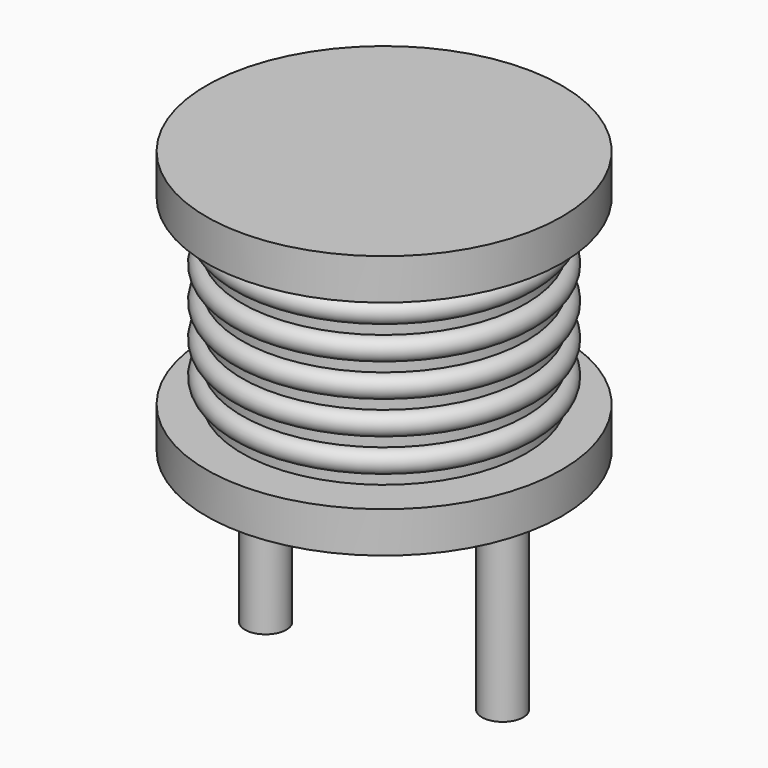
from build123d import *

# Parameters (mm, degrees)
SKETCH001_R  = 0.35
PAD001_DEPTH = 3.5


with BuildPart() as revolution:
    # Sketch → Revolution (revolve)
    with BuildSketch(Plane(origin=(2, 0, 0), x_dir=(1, 0, 0), z_dir=(0, -1, 0))):
        Polygon((0, 0.05), (1.3, 0.05), (1.3, 0.2), (3, 0.2), (3, 0.89), (0.6, 0.89), (0.6, 3.96), (3, 3.96), (3, 4.65), (0, 4.65), align=None)
    revolve(axis=Axis((2, 0, 0), (0, 0, 1)))


with BuildPart() as pad001:
    # Sketch001 → Pad001 (new body)
    with BuildSketch(Plane.XY.offset(0.5)):
        Circle(SKETCH001_R)
        with Locations((4, 0)):
            Circle(SKETCH001_R)
    extrude(amount=-PAD001_DEPTH)


with BuildPart() as l_radial_d6_0mm_p4_00mm:
    # Sketch002 → Revolution001 (revolve)
    with BuildSketch(Plane(origin=(2, 0, 0), x_dir=(1, 0, 0), z_dir=(0, -1, 0))):
        with BuildLine():
            Line((2.4, 0.94), (0.6, 0.94))
            Line((0.6, 0.94), (0.6, 3.91))
            Line((0.6, 3.91), (2.4, 3.91))
            Line((2.4, 3.91), (2.4, 3.724375))
            ThreePointArc((2.4, 3.353125), (2.585625, 3.53875), (2.4, 3.724375))
            Line((2.4, 3.353125), (2.4, 3.1675))
            ThreePointArc((2.4, 2.79625), (2.585625, 2.981875), (2.4, 3.1675))
            Line((2.4, 2.79625), (2.4, 2.610625))
            ThreePointArc((2.4, 2.239375), (2.585625, 2.425), (2.4, 2.610625))
            Line((2.4, 2.239375), (2.4, 2.05375))
            ThreePointArc((2.4, 1.6825), (2.585625, 1.868125), (2.4, 2.05375))
            Line((2.4, 1.6825), (2.4, 1.496875))
            ThreePointArc((2.4, 1.125625), (2.585625, 1.31125), (2.4, 1.496875))
            Line((2.4, 0.94), (2.4, 1.125625))
        make_face()
    revolve(axis=Axis((2, 0, 0), (0, 0, 1)))

    add(revolution.part)
    add(pad001.part)


solid = l_radial_d6_0mm_p4_00mm.part
